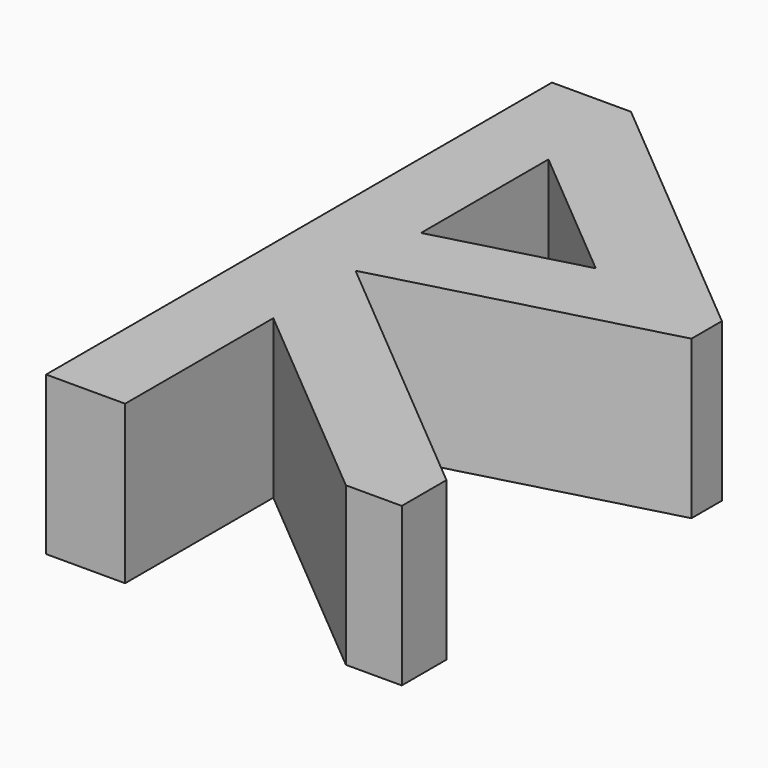
from build123d import *

# Parameters (mm, degrees)
F1_DEPTH = 8


with BuildPart() as f1:
    # F0 (on Top) → F1 (new body)
    with BuildSketch(Plane.XY):
        Polygon((4, 0), (0, 0), (0, -32), (4, -32), (4, -22.625937), (15.171573, -32), (18, -32), (18, -29.171573), (4, -17.424178), (18, -13.672889), (18, -11.747395), align=None)
        Polygon((4, -13.283073), (4, -5.221629), (11.281923, -11.331888), align=None, mode=Mode.SUBTRACT)
    extrude(amount=F1_DEPTH)


solid = f1.part
